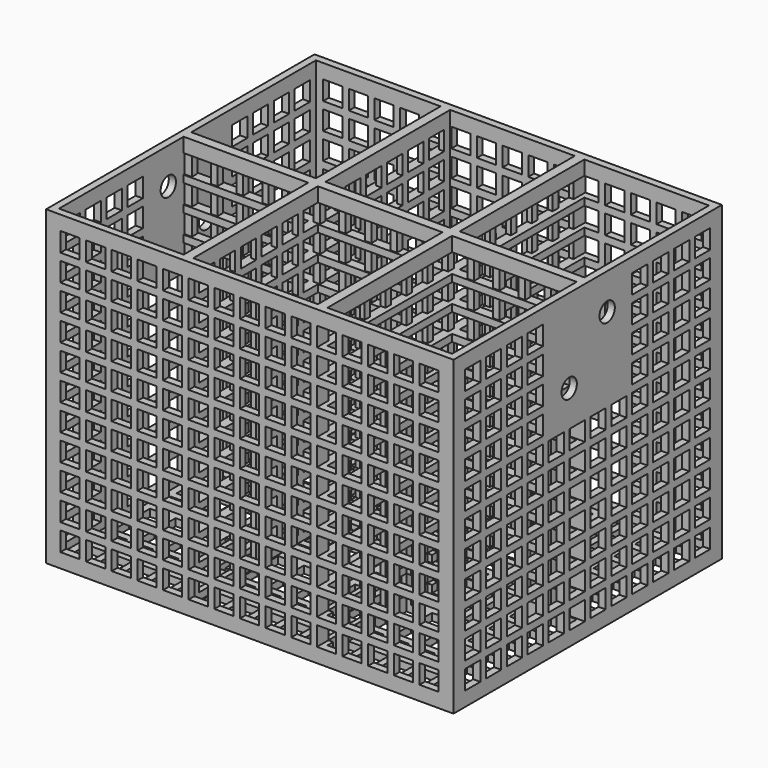
from build123d import *

# Parameters (mm, degrees)
F0_W      = 170
F0_H      = 140
F1_DEPTH  = 130
F3_W      = 52
F3_H      = 65
F4_DEPTH  = 127
F5_W      = 8
F5_H      = 8
F6_DEPTH  = 170
F7_W      = 8
F7_H      = 8
F8_DEPTH  = 140
F9_W      = 8
F9_H      = 8
F10_DEPTH = 25
F11_W     = 42
F11_H     = 47
F12_DEPTH = 3
F13_W     = 42
F13_H     = 47
F14_DEPTH = 3
F15_R     = 4
F16_DEPTH = 5
F17_R     = 4
F18_DEPTH = 5


with BuildPart() as f1:
    # F0 (on Top) → F1 (new body)
    with BuildSketch(Plane.XY):
        with Locations((85, 70)):
            Rectangle(F0_W, F0_H)
    extrude(amount=F1_DEPTH)

    # F3 (on offset) → F4 (cut, through all)
    with BuildSketch(Plane.XY.offset(3)):
        with Locations((29, 35.5)):
            Rectangle(F3_W, F3_H)
        with Locations((29, 104.5)):
            Rectangle(F3_W, F3_H)
        with Locations((85, 35.5)):
            Rectangle(F3_W, F3_H)
        with Locations((85, 104.5)):
            Rectangle(F3_W, F3_H)
        with Locations((141, 35.5)):
            Rectangle(F3_W, F3_H)
        with Locations((141, 104.5)):
            Rectangle(F3_W, F3_H)
    extrude(amount=F4_DEPTH, mode=Mode.SUBTRACT)

    # F5 (on face) → F6 (cut)
    with BuildSketch(Plane.YZ.offset(170)):
        with Locations((10, 10)):
            Rectangle(F5_W, F5_H)
        with Locations((10, 21)):
            Rectangle(F5_W, F5_H)
        with Locations((10, 32)):
            Rectangle(F5_W, F5_H)
        with Locations((10, 43)):
            Rectangle(F5_W, F5_H)
        with Locations((10, 54)):
            Rectangle(F5_W, F5_H)
        with Locations((10, 65)):
            Rectangle(F5_W, F5_H)
        with Locations((10, 76)):
            Rectangle(F5_W, F5_H)
        with Locations((10, 87)):
            Rectangle(F5_W, F5_H)
        with Locations((10, 98)):
            Rectangle(F5_W, F5_H)
        with Locations((10, 109)):
            Rectangle(F5_W, F5_H)
        with Locations((10, 120)):
            Rectangle(F5_W, F5_H)
        with Locations((20.9, 10)):
            Rectangle(F5_W, F5_H)
        with Locations((20.9, 21)):
            Rectangle(F5_W, F5_H)
        with Locations((20.9, 32)):
            Rectangle(F5_W, F5_H)
        with Locations((20.9, 43)):
            Rectangle(F5_W, F5_H)
        with Locations((20.9, 54)):
            Rectangle(F5_W, F5_H)
        with Locations((20.9, 65)):
            Rectangle(F5_W, F5_H)
        with Locations((20.9, 76)):
            Rectangle(F5_W, F5_H)
        with Locations((20.9, 87)):
            Rectangle(F5_W, F5_H)
        with Locations((20.9, 98)):
            Rectangle(F5_W, F5_H)
        with Locations((20.9, 109)):
            Rectangle(F5_W, F5_H)
        with Locations((20.9, 120)):
            Rectangle(F5_W, F5_H)
        with Locations((31.8, 10)):
            Rectangle(F5_W, F5_H)
        with Locations((31.8, 21)):
            Rectangle(F5_W, F5_H)
        with Locations((31.8, 32)):
            Rectangle(F5_W, F5_H)
        with Locations((31.8, 43)):
            Rectangle(F5_W, F5_H)
        with Locations((31.8, 54)):
            Rectangle(F5_W, F5_H)
        with Locations((31.8, 65)):
            Rectangle(F5_W, F5_H)
        with Locations((31.8, 76)):
            Rectangle(F5_W, F5_H)
        with Locations((31.8, 87)):
            Rectangle(F5_W, F5_H)
        with Locations((31.8, 98)):
            Rectangle(F5_W, F5_H)
        with Locations((31.8, 109)):
            Rectangle(F5_W, F5_H)
        with Locations((31.8, 120)):
            Rectangle(F5_W, F5_H)
        with Locations((42.7, 10)):
            Rectangle(F5_W, F5_H)
        with Locations((42.7, 21)):
            Rectangle(F5_W, F5_H)
        with Locations((42.7, 32)):
            Rectangle(F5_W, F5_H)
        with Locations((42.7, 43)):
            Rectangle(F5_W, F5_H)
        with Locations((42.7, 54)):
            Rectangle(F5_W, F5_H)
        with Locations((42.7, 65)):
            Rectangle(F5_W, F5_H)
        with Locations((42.7, 76)):
            Rectangle(F5_W, F5_H)
        with Locations((42.7, 87)):
            Rectangle(F5_W, F5_H)
        with Locations((42.7, 98)):
            Rectangle(F5_W, F5_H)
        with Locations((42.7, 109)):
            Rectangle(F5_W, F5_H)
        with Locations((42.7, 120)):
            Rectangle(F5_W, F5_H)
        with Locations((53.6, 10)):
            Rectangle(F5_W, F5_H)
        with Locations((53.6, 21)):
            Rectangle(F5_W, F5_H)
        with Locations((53.6, 32)):
            Rectangle(F5_W, F5_H)
        with Locations((53.6, 43)):
            Rectangle(F5_W, F5_H)
        with Locations((53.6, 54)):
            Rectangle(F5_W, F5_H)
        with Locations((53.6, 65)):
            Rectangle(F5_W, F5_H)
        with Locations((53.6, 76)):
            Rectangle(F5_W, F5_H)
        with Locations((53.6, 87)):
            Rectangle(F5_W, F5_H)
        with Locations((53.6, 98)):
            Rectangle(F5_W, F5_H)
        with Locations((53.6, 109)):
            Rectangle(F5_W, F5_H)
        with Locations((53.6, 120)):
            Rectangle(F5_W, F5_H)
        with Locations((64.5, 10)):
            Rectangle(F5_W, F5_H)
        with Locations((64.5, 21)):
            Rectangle(F5_W, F5_H)
        with Locations((64.5, 32)):
            Rectangle(F5_W, F5_H)
        with Locations((64.5, 43)):
            Rectangle(F5_W, F5_H)
        with Locations((64.5, 54)):
            Rectangle(F5_W, F5_H)
        with Locations((64.5, 65)):
            Rectangle(F5_W, F5_H)
        with Locations((64.5, 76)):
            Rectangle(F5_W, F5_H)
        with Locations((64.5, 87)):
            Rectangle(F5_W, F5_H)
        with Locations((64.5, 98)):
            Rectangle(F5_W, F5_H)
        with Locations((64.5, 109)):
            Rectangle(F5_W, F5_H)
        with Locations((64.5, 120)):
            Rectangle(F5_W, F5_H)
        with Locations((75.4, 10)):
            Rectangle(F5_W, F5_H)
        with Locations((75.4, 21)):
            Rectangle(F5_W, F5_H)
        with Locations((75.4, 32)):
            Rectangle(F5_W, F5_H)
        with Locations((75.4, 43)):
            Rectangle(F5_W, F5_H)
        with Locations((75.4, 54)):
            Rectangle(F5_W, F5_H)
        with Locations((75.4, 65)):
            Rectangle(F5_W, F5_H)
        with Locations((75.4, 76)):
            Rectangle(F5_W, F5_H)
        with Locations((75.4, 87)):
            Rectangle(F5_W, F5_H)
        with Locations((75.4, 98)):
            Rectangle(F5_W, F5_H)
        with Locations((75.4, 109)):
            Rectangle(F5_W, F5_H)
        with Locations((75.4, 120)):
            Rectangle(F5_W, F5_H)
        with Locations((86.3, 10)):
            Rectangle(F5_W, F5_H)
        with Locations((86.3, 21)):
            Rectangle(F5_W, F5_H)
        with Locations((86.3, 32)):
            Rectangle(F5_W, F5_H)
        with Locations((86.3, 43)):
            Rectangle(F5_W, F5_H)
        with Locations((86.3, 54)):
            Rectangle(F5_W, F5_H)
        with Locations((86.3, 65)):
            Rectangle(F5_W, F5_H)
        with Locations((86.3, 76)):
            Rectangle(F5_W, F5_H)
        with Locations((86.3, 87)):
            Rectangle(F5_W, F5_H)
        with Locations((86.3, 98)):
            Rectangle(F5_W, F5_H)
        with Locations((86.3, 109)):
            Rectangle(F5_W, F5_H)
        with Locations((86.3, 120)):
            Rectangle(F5_W, F5_H)
        with Locations((97.2, 10)):
            Rectangle(F5_W, F5_H)
        with Locations((97.2, 21)):
            Rectangle(F5_W, F5_H)
        with Locations((97.2, 32)):
            Rectangle(F5_W, F5_H)
        with Locations((97.2, 43)):
            Rectangle(F5_W, F5_H)
        with Locations((97.2, 54)):
            Rectangle(F5_W, F5_H)
        with Locations((97.2, 65)):
            Rectangle(F5_W, F5_H)
        with Locations((97.2, 76)):
            Rectangle(F5_W, F5_H)
        with Locations((97.2, 87)):
            Rectangle(F5_W, F5_H)
        with Locations((97.2, 98)):
            Rectangle(F5_W, F5_H)
        with Locations((97.2, 109)):
            Rectangle(F5_W, F5_H)
        with Locations((97.2, 120)):
            Rectangle(F5_W, F5_H)
        with Locations((108.1, 10)):
            Rectangle(F5_W, F5_H)
        with Locations((108.1, 21)):
            Rectangle(F5_W, F5_H)
        with Locations((108.1, 32)):
            Rectangle(F5_W, F5_H)
        with Locations((108.1, 43)):
            Rectangle(F5_W, F5_H)
        with Locations((108.1, 54)):
            Rectangle(F5_W, F5_H)
        with Locations((108.1, 65)):
            Rectangle(F5_W, F5_H)
        with Locations((108.1, 76)):
            Rectangle(F5_W, F5_H)
        with Locations((108.1, 87)):
            Rectangle(F5_W, F5_H)
        with Locations((108.1, 98)):
            Rectangle(F5_W, F5_H)
        with Locations((108.1, 109)):
            Rectangle(F5_W, F5_H)
        with Locations((108.1, 120)):
            Rectangle(F5_W, F5_H)
        with Locations((119, 10)):
            Rectangle(F5_W, F5_H)
        with Locations((119, 21)):
            Rectangle(F5_W, F5_H)
        with Locations((119, 32)):
            Rectangle(F5_W, F5_H)
        with Locations((119, 43)):
            Rectangle(F5_W, F5_H)
        with Locations((119, 54)):
            Rectangle(F5_W, F5_H)
        with Locations((119, 65)):
            Rectangle(F5_W, F5_H)
        with Locations((119, 76)):
            Rectangle(F5_W, F5_H)
        with Locations((119, 87)):
            Rectangle(F5_W, F5_H)
        with Locations((119, 98)):
            Rectangle(F5_W, F5_H)
        with Locations((119, 109)):
            Rectangle(F5_W, F5_H)
        with Locations((119, 120)):
            Rectangle(F5_W, F5_H)
        with Locations((129.9, 10)):
            Rectangle(F5_W, F5_H)
        with Locations((129.9, 21)):
            Rectangle(F5_W, F5_H)
        with Locations((129.9, 32)):
            Rectangle(F5_W, F5_H)
        with Locations((129.9, 43)):
            Rectangle(F5_W, F5_H)
        with Locations((129.9, 54)):
            Rectangle(F5_W, F5_H)
        with Locations((129.9, 65)):
            Rectangle(F5_W, F5_H)
        with Locations((129.9, 76)):
            Rectangle(F5_W, F5_H)
        with Locations((129.9, 87)):
            Rectangle(F5_W, F5_H)
        with Locations((129.9, 98)):
            Rectangle(F5_W, F5_H)
        with Locations((129.9, 109)):
            Rectangle(F5_W, F5_H)
        with Locations((129.9, 120)):
            Rectangle(F5_W, F5_H)
    extrude(amount=-F6_DEPTH, mode=Mode.SUBTRACT)

    # F7 (on face) → F8 (cut)
    with BuildSketch(Plane.XZ):
        with Locations((10, 10)):
            Rectangle(F7_W, F7_H)
        with Locations((10, 21)):
            Rectangle(F7_W, F7_H)
        with Locations((10, 32)):
            Rectangle(F7_W, F7_H)
        with Locations((10, 43)):
            Rectangle(F7_W, F7_H)
        with Locations((10, 54)):
            Rectangle(F7_W, F7_H)
        with Locations((10, 65)):
            Rectangle(F7_W, F7_H)
        with Locations((10, 76)):
            Rectangle(F7_W, F7_H)
        with Locations((10, 87)):
            Rectangle(F7_W, F7_H)
        with Locations((10, 98)):
            Rectangle(F7_W, F7_H)
        with Locations((10, 109)):
            Rectangle(F7_W, F7_H)
        with Locations((10, 120)):
            Rectangle(F7_W, F7_H)
        with Locations((20.7, 10)):
            Rectangle(F7_W, F7_H)
        with Locations((20.7, 21)):
            Rectangle(F7_W, F7_H)
        with Locations((20.7, 32)):
            Rectangle(F7_W, F7_H)
        with Locations((20.7, 43)):
            Rectangle(F7_W, F7_H)
        with Locations((20.7, 54)):
            Rectangle(F7_W, F7_H)
        with Locations((20.7, 65)):
            Rectangle(F7_W, F7_H)
        with Locations((20.7, 76)):
            Rectangle(F7_W, F7_H)
        with Locations((20.7, 87)):
            Rectangle(F7_W, F7_H)
        with Locations((20.7, 98)):
            Rectangle(F7_W, F7_H)
        with Locations((20.7, 109)):
            Rectangle(F7_W, F7_H)
        with Locations((20.7, 120)):
            Rectangle(F7_W, F7_H)
        with Locations((31.4, 10)):
            Rectangle(F7_W, F7_H)
        with Locations((31.4, 21)):
            Rectangle(F7_W, F7_H)
        with Locations((31.4, 32)):
            Rectangle(F7_W, F7_H)
        with Locations((31.4, 43)):
            Rectangle(F7_W, F7_H)
        with Locations((31.4, 54)):
            Rectangle(F7_W, F7_H)
        with Locations((31.4, 65)):
            Rectangle(F7_W, F7_H)
        with Locations((31.4, 76)):
            Rectangle(F7_W, F7_H)
        with Locations((31.4, 87)):
            Rectangle(F7_W, F7_H)
        with Locations((31.4, 98)):
            Rectangle(F7_W, F7_H)
        with Locations((31.4, 109)):
            Rectangle(F7_W, F7_H)
        with Locations((31.4, 120)):
            Rectangle(F7_W, F7_H)
        with Locations((42.1, 10)):
            Rectangle(F7_W, F7_H)
        with Locations((42.1, 21)):
            Rectangle(F7_W, F7_H)
        with Locations((42.1, 32)):
            Rectangle(F7_W, F7_H)
        with Locations((42.1, 43)):
            Rectangle(F7_W, F7_H)
        with Locations((42.1, 54)):
            Rectangle(F7_W, F7_H)
        with Locations((42.1, 65)):
            Rectangle(F7_W, F7_H)
        with Locations((42.1, 76)):
            Rectangle(F7_W, F7_H)
        with Locations((42.1, 87)):
            Rectangle(F7_W, F7_H)
        with Locations((42.1, 98)):
            Rectangle(F7_W, F7_H)
        with Locations((42.1, 109)):
            Rectangle(F7_W, F7_H)
        with Locations((42.1, 120)):
            Rectangle(F7_W, F7_H)
        with Locations((52.8, 10)):
            Rectangle(F7_W, F7_H)
        with Locations((52.8, 21)):
            Rectangle(F7_W, F7_H)
        with Locations((52.8, 32)):
            Rectangle(F7_W, F7_H)
        with Locations((52.8, 43)):
            Rectangle(F7_W, F7_H)
        with Locations((52.8, 54)):
            Rectangle(F7_W, F7_H)
        with Locations((52.8, 65)):
            Rectangle(F7_W, F7_H)
        with Locations((52.8, 76)):
            Rectangle(F7_W, F7_H)
        with Locations((52.8, 87)):
            Rectangle(F7_W, F7_H)
        with Locations((52.8, 98)):
            Rectangle(F7_W, F7_H)
        with Locations((52.8, 109)):
            Rectangle(F7_W, F7_H)
        with Locations((52.8, 120)):
            Rectangle(F7_W, F7_H)
        with Locations((63.5, 10)):
            Rectangle(F7_W, F7_H)
        with Locations((63.5, 21)):
            Rectangle(F7_W, F7_H)
        with Locations((63.5, 32)):
            Rectangle(F7_W, F7_H)
        with Locations((63.5, 43)):
            Rectangle(F7_W, F7_H)
        with Locations((63.5, 54)):
            Rectangle(F7_W, F7_H)
        with Locations((63.5, 65)):
            Rectangle(F7_W, F7_H)
        with Locations((63.5, 76)):
            Rectangle(F7_W, F7_H)
        with Locations((63.5, 87)):
            Rectangle(F7_W, F7_H)
        with Locations((63.5, 98)):
            Rectangle(F7_W, F7_H)
        with Locations((63.5, 109)):
            Rectangle(F7_W, F7_H)
        with Locations((63.5, 120)):
            Rectangle(F7_W, F7_H)
        with Locations((74.2, 10)):
            Rectangle(F7_W, F7_H)
        with Locations((74.2, 21)):
            Rectangle(F7_W, F7_H)
        with Locations((74.2, 32)):
            Rectangle(F7_W, F7_H)
        with Locations((74.2, 43)):
            Rectangle(F7_W, F7_H)
        with Locations((74.2, 54)):
            Rectangle(F7_W, F7_H)
        with Locations((74.2, 65)):
            Rectangle(F7_W, F7_H)
        with Locations((74.2, 76)):
            Rectangle(F7_W, F7_H)
        with Locations((74.2, 87)):
            Rectangle(F7_W, F7_H)
        with Locations((74.2, 98)):
            Rectangle(F7_W, F7_H)
        with Locations((74.2, 109)):
            Rectangle(F7_W, F7_H)
        with Locations((74.2, 120)):
            Rectangle(F7_W, F7_H)
        with Locations((84.9, 10)):
            Rectangle(F7_W, F7_H)
        with Locations((84.9, 21)):
            Rectangle(F7_W, F7_H)
        with Locations((84.9, 32)):
            Rectangle(F7_W, F7_H)
        with Locations((84.9, 43)):
            Rectangle(F7_W, F7_H)
        with Locations((84.9, 54)):
            Rectangle(F7_W, F7_H)
        with Locations((84.9, 65)):
            Rectangle(F7_W, F7_H)
        with Locations((84.9, 76)):
            Rectangle(F7_W, F7_H)
        with Locations((84.9, 87)):
            Rectangle(F7_W, F7_H)
        with Locations((84.9, 98)):
            Rectangle(F7_W, F7_H)
        with Locations((84.9, 109)):
            Rectangle(F7_W, F7_H)
        with Locations((84.9, 120)):
            Rectangle(F7_W, F7_H)
        with Locations((95.6, 10)):
            Rectangle(F7_W, F7_H)
        with Locations((95.6, 21)):
            Rectangle(F7_W, F7_H)
        with Locations((95.6, 32)):
            Rectangle(F7_W, F7_H)
        with Locations((95.6, 43)):
            Rectangle(F7_W, F7_H)
        with Locations((95.6, 54)):
            Rectangle(F7_W, F7_H)
        with Locations((95.6, 65)):
            Rectangle(F7_W, F7_H)
        with Locations((95.6, 76)):
            Rectangle(F7_W, F7_H)
        with Locations((95.6, 87)):
            Rectangle(F7_W, F7_H)
        with Locations((95.6, 98)):
            Rectangle(F7_W, F7_H)
        with Locations((95.6, 109)):
            Rectangle(F7_W, F7_H)
        with Locations((95.6, 120)):
            Rectangle(F7_W, F7_H)
        with Locations((106.3, 10)):
            Rectangle(F7_W, F7_H)
        with Locations((106.3, 21)):
            Rectangle(F7_W, F7_H)
        with Locations((106.3, 32)):
            Rectangle(F7_W, F7_H)
        with Locations((106.3, 43)):
            Rectangle(F7_W, F7_H)
        with Locations((106.3, 54)):
            Rectangle(F7_W, F7_H)
        with Locations((106.3, 65)):
            Rectangle(F7_W, F7_H)
        with Locations((106.3, 76)):
            Rectangle(F7_W, F7_H)
        with Locations((106.3, 87)):
            Rectangle(F7_W, F7_H)
        with Locations((106.3, 98)):
            Rectangle(F7_W, F7_H)
        with Locations((106.3, 109)):
            Rectangle(F7_W, F7_H)
        with Locations((106.3, 120)):
            Rectangle(F7_W, F7_H)
        with Locations((117, 10)):
            Rectangle(F7_W, F7_H)
        with Locations((117, 21)):
            Rectangle(F7_W, F7_H)
        with Locations((117, 32)):
            Rectangle(F7_W, F7_H)
        with Locations((117, 43)):
            Rectangle(F7_W, F7_H)
        with Locations((117, 54)):
            Rectangle(F7_W, F7_H)
        with Locations((117, 65)):
            Rectangle(F7_W, F7_H)
        with Locations((117, 76)):
            Rectangle(F7_W, F7_H)
        with Locations((117, 87)):
            Rectangle(F7_W, F7_H)
        with Locations((117, 98)):
            Rectangle(F7_W, F7_H)
        with Locations((117, 109)):
            Rectangle(F7_W, F7_H)
        with Locations((117, 120)):
            Rectangle(F7_W, F7_H)
        with Locations((127.7, 10)):
            Rectangle(F7_W, F7_H)
        with Locations((127.7, 21)):
            Rectangle(F7_W, F7_H)
        with Locations((127.7, 32)):
            Rectangle(F7_W, F7_H)
        with Locations((127.7, 43)):
            Rectangle(F7_W, F7_H)
        with Locations((127.7, 54)):
            Rectangle(F7_W, F7_H)
        with Locations((127.7, 65)):
            Rectangle(F7_W, F7_H)
        with Locations((127.7, 76)):
            Rectangle(F7_W, F7_H)
        with Locations((127.7, 87)):
            Rectangle(F7_W, F7_H)
        with Locations((127.7, 98)):
            Rectangle(F7_W, F7_H)
        with Locations((127.7, 109)):
            Rectangle(F7_W, F7_H)
        with Locations((127.7, 120)):
            Rectangle(F7_W, F7_H)
        with Locations((138.4, 10)):
            Rectangle(F7_W, F7_H)
        with Locations((138.4, 21)):
            Rectangle(F7_W, F7_H)
        with Locations((138.4, 32)):
            Rectangle(F7_W, F7_H)
        with Locations((138.4, 43)):
            Rectangle(F7_W, F7_H)
        with Locations((138.4, 54)):
            Rectangle(F7_W, F7_H)
        with Locations((138.4, 65)):
            Rectangle(F7_W, F7_H)
        with Locations((138.4, 76)):
            Rectangle(F7_W, F7_H)
        with Locations((138.4, 87)):
            Rectangle(F7_W, F7_H)
        with Locations((138.4, 98)):
            Rectangle(F7_W, F7_H)
        with Locations((138.4, 109)):
            Rectangle(F7_W, F7_H)
        with Locations((138.4, 120)):
            Rectangle(F7_W, F7_H)
        with Locations((149.1, 10)):
            Rectangle(F7_W, F7_H)
        with Locations((149.1, 21)):
            Rectangle(F7_W, F7_H)
        with Locations((149.1, 32)):
            Rectangle(F7_W, F7_H)
        with Locations((149.1, 43)):
            Rectangle(F7_W, F7_H)
        with Locations((149.1, 54)):
            Rectangle(F7_W, F7_H)
        with Locations((149.1, 65)):
            Rectangle(F7_W, F7_H)
        with Locations((149.1, 76)):
            Rectangle(F7_W, F7_H)
        with Locations((149.1, 87)):
            Rectangle(F7_W, F7_H)
        with Locations((149.1, 98)):
            Rectangle(F7_W, F7_H)
        with Locations((149.1, 109)):
            Rectangle(F7_W, F7_H)
        with Locations((149.1, 120)):
            Rectangle(F7_W, F7_H)
        with Locations((159.8, 10)):
            Rectangle(F7_W, F7_H)
        with Locations((159.8, 21)):
            Rectangle(F7_W, F7_H)
        with Locations((159.8, 32)):
            Rectangle(F7_W, F7_H)
        with Locations((159.8, 43)):
            Rectangle(F7_W, F7_H)
        with Locations((159.8, 54)):
            Rectangle(F7_W, F7_H)
        with Locations((159.8, 65)):
            Rectangle(F7_W, F7_H)
        with Locations((159.8, 76)):
            Rectangle(F7_W, F7_H)
        with Locations((159.8, 87)):
            Rectangle(F7_W, F7_H)
        with Locations((159.8, 98)):
            Rectangle(F7_W, F7_H)
        with Locations((159.8, 109)):
            Rectangle(F7_W, F7_H)
        with Locations((159.8, 120)):
            Rectangle(F7_W, F7_H)
    extrude(amount=-F8_DEPTH, mode=Mode.SUBTRACT)

    # F9 (on Top) → F10 (cut)
    with BuildSketch(Plane.XY):
        with Locations((10, 10)):
            Rectangle(F9_W, F9_H)
        with Locations((10, 20.9)):
            Rectangle(F9_W, F9_H)
        with Locations((10, 31.8)):
            Rectangle(F9_W, F9_H)
        with Locations((10, 42.7)):
            Rectangle(F9_W, F9_H)
        with Locations((10, 53.6)):
            Rectangle(F9_W, F9_H)
        with Locations((10, 64.5)):
            Rectangle(F9_W, F9_H)
        with Locations((10, 75.4)):
            Rectangle(F9_W, F9_H)
        with Locations((10, 86.3)):
            Rectangle(F9_W, F9_H)
        with Locations((10, 97.2)):
            Rectangle(F9_W, F9_H)
        with Locations((10, 108.1)):
            Rectangle(F9_W, F9_H)
        with Locations((10, 119)):
            Rectangle(F9_W, F9_H)
        with Locations((10, 129.9)):
            Rectangle(F9_W, F9_H)
        with Locations((20.7, 10)):
            Rectangle(F9_W, F9_H)
        with Locations((20.7, 20.9)):
            Rectangle(F9_W, F9_H)
        with Locations((20.7, 31.8)):
            Rectangle(F9_W, F9_H)
        with Locations((20.7, 42.7)):
            Rectangle(F9_W, F9_H)
        with Locations((20.7, 53.6)):
            Rectangle(F9_W, F9_H)
        with Locations((20.7, 64.5)):
            Rectangle(F9_W, F9_H)
        with Locations((20.7, 75.4)):
            Rectangle(F9_W, F9_H)
        with Locations((20.7, 86.3)):
            Rectangle(F9_W, F9_H)
        with Locations((20.7, 97.2)):
            Rectangle(F9_W, F9_H)
        with Locations((20.7, 108.1)):
            Rectangle(F9_W, F9_H)
        with Locations((20.7, 119)):
            Rectangle(F9_W, F9_H)
        with Locations((20.7, 129.9)):
            Rectangle(F9_W, F9_H)
        with Locations((31.4, 10)):
            Rectangle(F9_W, F9_H)
        with Locations((31.4, 20.9)):
            Rectangle(F9_W, F9_H)
        with Locations((31.4, 31.8)):
            Rectangle(F9_W, F9_H)
        with Locations((31.4, 42.7)):
            Rectangle(F9_W, F9_H)
        with Locations((31.4, 53.6)):
            Rectangle(F9_W, F9_H)
        with Locations((31.4, 64.5)):
            Rectangle(F9_W, F9_H)
        with Locations((31.4, 75.4)):
            Rectangle(F9_W, F9_H)
        with Locations((31.4, 86.3)):
            Rectangle(F9_W, F9_H)
        with Locations((31.4, 97.2)):
            Rectangle(F9_W, F9_H)
        with Locations((31.4, 108.1)):
            Rectangle(F9_W, F9_H)
        with Locations((31.4, 119)):
            Rectangle(F9_W, F9_H)
        with Locations((31.4, 129.9)):
            Rectangle(F9_W, F9_H)
        with Locations((42.1, 10)):
            Rectangle(F9_W, F9_H)
        with Locations((42.1, 20.9)):
            Rectangle(F9_W, F9_H)
        with Locations((42.1, 31.8)):
            Rectangle(F9_W, F9_H)
        with Locations((42.1, 42.7)):
            Rectangle(F9_W, F9_H)
        with Locations((42.1, 53.6)):
            Rectangle(F9_W, F9_H)
        with Locations((42.1, 64.5)):
            Rectangle(F9_W, F9_H)
        with Locations((42.1, 75.4)):
            Rectangle(F9_W, F9_H)
        with Locations((42.1, 86.3)):
            Rectangle(F9_W, F9_H)
        with Locations((42.1, 97.2)):
            Rectangle(F9_W, F9_H)
        with Locations((42.1, 108.1)):
            Rectangle(F9_W, F9_H)
        with Locations((42.1, 119)):
            Rectangle(F9_W, F9_H)
        with Locations((42.1, 129.9)):
            Rectangle(F9_W, F9_H)
        with Locations((52.8, 10)):
            Rectangle(F9_W, F9_H)
        with Locations((52.8, 20.9)):
            Rectangle(F9_W, F9_H)
        with Locations((52.8, 31.8)):
            Rectangle(F9_W, F9_H)
        with Locations((52.8, 42.7)):
            Rectangle(F9_W, F9_H)
        with Locations((52.8, 53.6)):
            Rectangle(F9_W, F9_H)
        with Locations((52.8, 64.5)):
            Rectangle(F9_W, F9_H)
        with Locations((52.8, 75.4)):
            Rectangle(F9_W, F9_H)
        with Locations((52.8, 86.3)):
            Rectangle(F9_W, F9_H)
        with Locations((52.8, 97.2)):
            Rectangle(F9_W, F9_H)
        with Locations((52.8, 108.1)):
            Rectangle(F9_W, F9_H)
        with Locations((52.8, 119)):
            Rectangle(F9_W, F9_H)
        with Locations((52.8, 129.9)):
            Rectangle(F9_W, F9_H)
        with Locations((63.5, 10)):
            Rectangle(F9_W, F9_H)
        with Locations((63.5, 20.9)):
            Rectangle(F9_W, F9_H)
        with Locations((63.5, 31.8)):
            Rectangle(F9_W, F9_H)
        with Locations((63.5, 42.7)):
            Rectangle(F9_W, F9_H)
        with Locations((63.5, 53.6)):
            Rectangle(F9_W, F9_H)
        with Locations((63.5, 64.5)):
            Rectangle(F9_W, F9_H)
        with Locations((63.5, 75.4)):
            Rectangle(F9_W, F9_H)
        with Locations((63.5, 86.3)):
            Rectangle(F9_W, F9_H)
        with Locations((63.5, 97.2)):
            Rectangle(F9_W, F9_H)
        with Locations((63.5, 108.1)):
            Rectangle(F9_W, F9_H)
        with Locations((63.5, 119)):
            Rectangle(F9_W, F9_H)
        with Locations((63.5, 129.9)):
            Rectangle(F9_W, F9_H)
        with Locations((74.2, 10)):
            Rectangle(F9_W, F9_H)
        with Locations((74.2, 20.9)):
            Rectangle(F9_W, F9_H)
        with Locations((74.2, 31.8)):
            Rectangle(F9_W, F9_H)
        with Locations((74.2, 42.7)):
            Rectangle(F9_W, F9_H)
        with Locations((74.2, 53.6)):
            Rectangle(F9_W, F9_H)
        with Locations((74.2, 64.5)):
            Rectangle(F9_W, F9_H)
        with Locations((74.2, 75.4)):
            Rectangle(F9_W, F9_H)
        with Locations((74.2, 86.3)):
            Rectangle(F9_W, F9_H)
        with Locations((74.2, 97.2)):
            Rectangle(F9_W, F9_H)
        with Locations((74.2, 108.1)):
            Rectangle(F9_W, F9_H)
        with Locations((74.2, 119)):
            Rectangle(F9_W, F9_H)
        with Locations((74.2, 129.9)):
            Rectangle(F9_W, F9_H)
        with Locations((84.9, 10)):
            Rectangle(F9_W, F9_H)
        with Locations((84.9, 20.9)):
            Rectangle(F9_W, F9_H)
        with Locations((84.9, 31.8)):
            Rectangle(F9_W, F9_H)
        with Locations((84.9, 42.7)):
            Rectangle(F9_W, F9_H)
        with Locations((84.9, 53.6)):
            Rectangle(F9_W, F9_H)
        with Locations((84.9, 64.5)):
            Rectangle(F9_W, F9_H)
        with Locations((84.9, 75.4)):
            Rectangle(F9_W, F9_H)
        with Locations((84.9, 86.3)):
            Rectangle(F9_W, F9_H)
        with Locations((84.9, 97.2)):
            Rectangle(F9_W, F9_H)
        with Locations((84.9, 108.1)):
            Rectangle(F9_W, F9_H)
        with Locations((84.9, 119)):
            Rectangle(F9_W, F9_H)
        with Locations((84.9, 129.9)):
            Rectangle(F9_W, F9_H)
        with Locations((95.6, 10)):
            Rectangle(F9_W, F9_H)
        with Locations((95.6, 20.9)):
            Rectangle(F9_W, F9_H)
        with Locations((95.6, 31.8)):
            Rectangle(F9_W, F9_H)
        with Locations((95.6, 42.7)):
            Rectangle(F9_W, F9_H)
        with Locations((95.6, 53.6)):
            Rectangle(F9_W, F9_H)
        with Locations((95.6, 64.5)):
            Rectangle(F9_W, F9_H)
        with Locations((95.6, 75.4)):
            Rectangle(F9_W, F9_H)
        with Locations((95.6, 86.3)):
            Rectangle(F9_W, F9_H)
        with Locations((95.6, 97.2)):
            Rectangle(F9_W, F9_H)
        with Locations((95.6, 108.1)):
            Rectangle(F9_W, F9_H)
        with Locations((95.6, 119)):
            Rectangle(F9_W, F9_H)
        with Locations((95.6, 129.9)):
            Rectangle(F9_W, F9_H)
        with Locations((106.3, 10)):
            Rectangle(F9_W, F9_H)
        with Locations((106.3, 20.9)):
            Rectangle(F9_W, F9_H)
        with Locations((106.3, 31.8)):
            Rectangle(F9_W, F9_H)
        with Locations((106.3, 42.7)):
            Rectangle(F9_W, F9_H)
        with Locations((106.3, 53.6)):
            Rectangle(F9_W, F9_H)
        with Locations((106.3, 64.5)):
            Rectangle(F9_W, F9_H)
        with Locations((106.3, 75.4)):
            Rectangle(F9_W, F9_H)
        with Locations((106.3, 86.3)):
            Rectangle(F9_W, F9_H)
        with Locations((106.3, 97.2)):
            Rectangle(F9_W, F9_H)
        with Locations((106.3, 108.1)):
            Rectangle(F9_W, F9_H)
        with Locations((106.3, 119)):
            Rectangle(F9_W, F9_H)
        with Locations((106.3, 129.9)):
            Rectangle(F9_W, F9_H)
        with Locations((117, 10)):
            Rectangle(F9_W, F9_H)
        with Locations((117, 20.9)):
            Rectangle(F9_W, F9_H)
        with Locations((117, 31.8)):
            Rectangle(F9_W, F9_H)
        with Locations((117, 42.7)):
            Rectangle(F9_W, F9_H)
        with Locations((117, 53.6)):
            Rectangle(F9_W, F9_H)
        with Locations((117, 64.5)):
            Rectangle(F9_W, F9_H)
        with Locations((117, 75.4)):
            Rectangle(F9_W, F9_H)
        with Locations((117, 86.3)):
            Rectangle(F9_W, F9_H)
        with Locations((117, 97.2)):
            Rectangle(F9_W, F9_H)
        with Locations((117, 108.1)):
            Rectangle(F9_W, F9_H)
        with Locations((117, 119)):
            Rectangle(F9_W, F9_H)
        with Locations((117, 129.9)):
            Rectangle(F9_W, F9_H)
        with Locations((127.7, 10)):
            Rectangle(F9_W, F9_H)
        with Locations((127.7, 20.9)):
            Rectangle(F9_W, F9_H)
        with Locations((127.7, 31.8)):
            Rectangle(F9_W, F9_H)
        with Locations((127.7, 42.7)):
            Rectangle(F9_W, F9_H)
        with Locations((127.7, 53.6)):
            Rectangle(F9_W, F9_H)
        with Locations((127.7, 64.5)):
            Rectangle(F9_W, F9_H)
        with Locations((127.7, 75.4)):
            Rectangle(F9_W, F9_H)
        with Locations((127.7, 86.3)):
            Rectangle(F9_W, F9_H)
        with Locations((127.7, 97.2)):
            Rectangle(F9_W, F9_H)
        with Locations((127.7, 108.1)):
            Rectangle(F9_W, F9_H)
        with Locations((127.7, 119)):
            Rectangle(F9_W, F9_H)
        with Locations((127.7, 129.9)):
            Rectangle(F9_W, F9_H)
        with Locations((138.4, 10)):
            Rectangle(F9_W, F9_H)
        with Locations((138.4, 20.9)):
            Rectangle(F9_W, F9_H)
        with Locations((138.4, 31.8)):
            Rectangle(F9_W, F9_H)
        with Locations((138.4, 42.7)):
            Rectangle(F9_W, F9_H)
        with Locations((138.4, 53.6)):
            Rectangle(F9_W, F9_H)
        with Locations((138.4, 64.5)):
            Rectangle(F9_W, F9_H)
        with Locations((138.4, 75.4)):
            Rectangle(F9_W, F9_H)
        with Locations((138.4, 86.3)):
            Rectangle(F9_W, F9_H)
        with Locations((138.4, 97.2)):
            Rectangle(F9_W, F9_H)
        with Locations((138.4, 108.1)):
            Rectangle(F9_W, F9_H)
        with Locations((138.4, 119)):
            Rectangle(F9_W, F9_H)
        with Locations((138.4, 129.9)):
            Rectangle(F9_W, F9_H)
        with Locations((149.1, 10)):
            Rectangle(F9_W, F9_H)
        with Locations((149.1, 20.9)):
            Rectangle(F9_W, F9_H)
        with Locations((149.1, 31.8)):
            Rectangle(F9_W, F9_H)
        with Locations((149.1, 42.7)):
            Rectangle(F9_W, F9_H)
        with Locations((149.1, 53.6)):
            Rectangle(F9_W, F9_H)
        with Locations((149.1, 64.5)):
            Rectangle(F9_W, F9_H)
        with Locations((149.1, 75.4)):
            Rectangle(F9_W, F9_H)
        with Locations((149.1, 86.3)):
            Rectangle(F9_W, F9_H)
        with Locations((149.1, 97.2)):
            Rectangle(F9_W, F9_H)
        with Locations((149.1, 108.1)):
            Rectangle(F9_W, F9_H)
        with Locations((149.1, 119)):
            Rectangle(F9_W, F9_H)
        with Locations((149.1, 129.9)):
            Rectangle(F9_W, F9_H)
        with Locations((159.8, 10)):
            Rectangle(F9_W, F9_H)
        with Locations((159.8, 20.9)):
            Rectangle(F9_W, F9_H)
        with Locations((159.8, 31.8)):
            Rectangle(F9_W, F9_H)
        with Locations((159.8, 42.7)):
            Rectangle(F9_W, F9_H)
        with Locations((159.8, 53.6)):
            Rectangle(F9_W, F9_H)
        with Locations((159.8, 64.5)):
            Rectangle(F9_W, F9_H)
        with Locations((159.8, 75.4)):
            Rectangle(F9_W, F9_H)
        with Locations((159.8, 86.3)):
            Rectangle(F9_W, F9_H)
        with Locations((159.8, 97.2)):
            Rectangle(F9_W, F9_H)
        with Locations((159.8, 108.1)):
            Rectangle(F9_W, F9_H)
        with Locations((159.8, 119)):
            Rectangle(F9_W, F9_H)
        with Locations((159.8, 129.9)):
            Rectangle(F9_W, F9_H)
    extrude(amount=F10_DEPTH, mode=Mode.SUBTRACT)

    # F11 (on face) → F12 (join)
    with BuildSketch(Plane.YZ.offset(170)):
        with Locations((70, 106.5)):
            Rectangle(F11_W, F11_H)
    extrude(amount=-F12_DEPTH)

    # F13 (on face) → F14 (join)
    with BuildSketch(Plane(origin=(0, 0, 0), x_dir=(0, -1, 0), z_dir=(-1, 0, 0))):
        with Locations((-70, 106.5)):
            Rectangle(F13_W, F13_H)
    extrude(amount=-F14_DEPTH)

    # F15 (on face) → F16 (cut)
    with BuildSketch(Plane.YZ.offset(170)):
        with Locations((80.144841, 115)):
            Circle(F15_R)
        with Locations((60.336419, 95)):
            Circle(F15_R)
    extrude(amount=-F16_DEPTH, mode=Mode.SUBTRACT)

    # F17 (on face) → F18 (cut)
    with BuildSketch(Plane(origin=(0, 0, 0), x_dir=(0, -1, 0), z_dir=(-1, 0, 0))):
        with Locations((-60, 115)):
            Circle(F17_R)
        with Locations((-80, 95)):
            Circle(F17_R)
    extrude(amount=-F18_DEPTH, mode=Mode.SUBTRACT)


solid = f1.part
